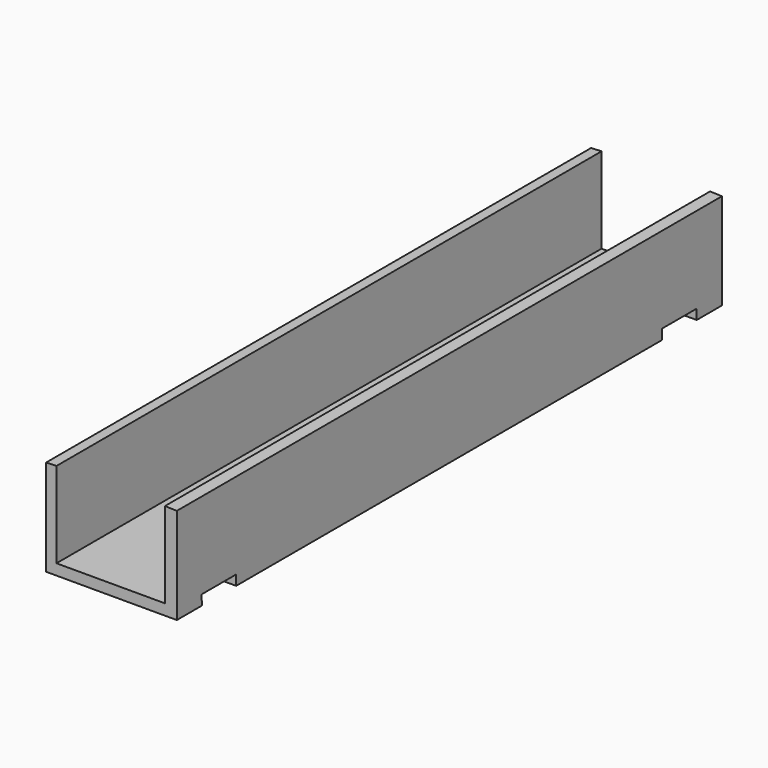
from build123d import *

# Parameters (mm, degrees)
F1_DEPTH = 101.6
F2_W     = 6.477
F2_H     = 1.5
F3_DEPTH = 19.5


with BuildPart() as f1:
    # F0 (on Front) → F1 (new body)
    with BuildSketch(Plane.XZ):
        Polygon((0, 14.34), (0, 0), (19.5, 0), (19.5, 14.34), (17.728965, 14.396643), (17.728965, 1.62), (1.548965, 1.62), (1.548965, 14.396643), align=None)
    extrude(amount=F1_DEPTH)

    # F2 (on face) → F3 (cut, through all)
    with BuildSketch(Plane(origin=(0, 0, 0), x_dir=(0, -1, 0), z_dir=(-1, 0, 0))):
        with Locations((7.9375, 0.75)):
            Rectangle(F2_W, F2_H)
        Polygon((90.551, 1.5), (90.551, 0), (96.901, 0), (97.028, 1.5), align=None)
    extrude(amount=-F3_DEPTH, mode=Mode.SUBTRACT)


solid = f1.part
